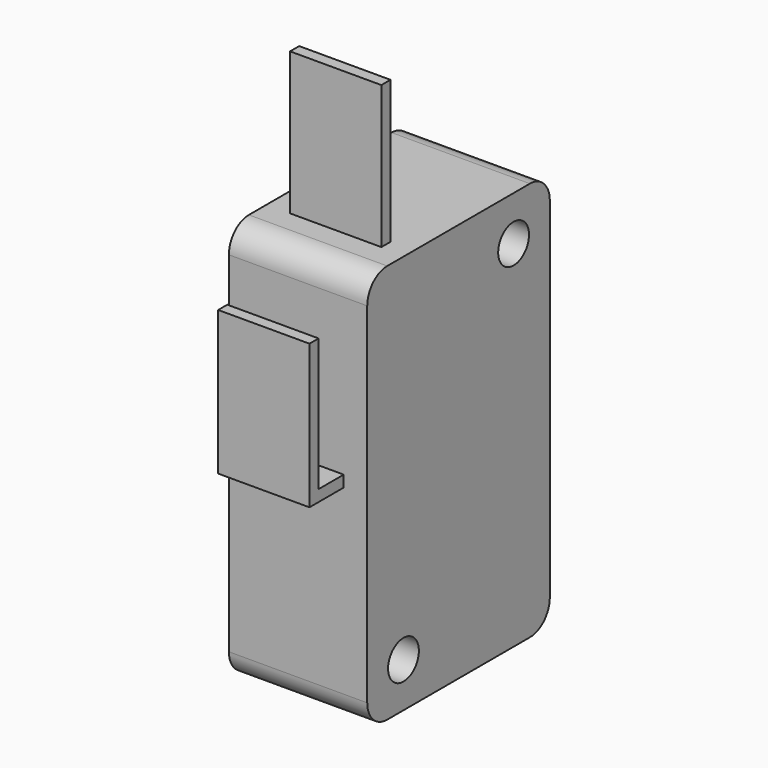
from build123d import *

# Parameters (mm, degrees)
SKETCH051_R             = 1.35
PAD051_DEPTH            = 9.7
SKETCH052_W             = 2.9
SKETCH052_H             = 4.1
PAD052_DEPTH            = 3
SKETCH053_W             = 0.8
SKETCH053_H             = 6.4
PAD053_DEPTH            = 10
SKETCH054_W             = 0.8
SKETCH054_H             = 6.4
PAD054_DEPTH            = 3
SKETCH055_W             = 0.8
SKETCH055_H             = 6.4
PAD055_DEPTH            = 9.3
FILLET007_R             = 1.2
BODY011_PLACEMENT_ANGLE = 90


with BuildPart() as part:
    # Sketch051 → Pad051 (new body)
    with BuildSketch(Plane.XY):
        with BuildLine():
            ThreePointArc((-12.25, 8), (-13.487437, 7.487437), (-14, 6.25))
            Line((-14, -6.25), (-14, 6.25))
            ThreePointArc((-14, -6.25), (-13.487437, -7.487437), (-12.25, -8))
            Line((12.25, -8), (-12.25, -8))
            ThreePointArc((12.25, -8), (13.487437, -7.487437), (14, -6.25))
            Line((14, 6.25), (14, -6.25))
            ThreePointArc((14, 6.25), (13.487437, 7.487437), (12.25, 8))
            Line((-12.25, 8), (12.25, 8))
        make_face()
        with Locations((10.877931, -4.825)):
            Circle(SKETCH051_R, mode=Mode.SUBTRACT)
        with Locations((-10.877931, 4.825)):
            Circle(SKETCH051_R, mode=Mode.SUBTRACT)
    extrude(amount=PAD051_DEPTH)

    # Sketch052 (on Face8 of Pad051) → Pad052 (join)
    with BuildSketch(Plane(origin=(0, 8, 0), x_dir=(-1, 0, 0), z_dir=(0, 1, 0))):
        with Locations((-9.45, 4.85)):
            Rectangle(SKETCH052_W, SKETCH052_H)
    extrude(amount=PAD052_DEPTH)

    # Sketch053 (on Face3 of Pad052) → Pad053 (join)
    with BuildSketch(Plane(origin=(-14, 0, 0), x_dir=(0, -1, 0), z_dir=(-1, 0, 0))):
        with Locations((4.3, 4.85)):
            Rectangle(SKETCH053_W, SKETCH053_H)
    extrude(amount=PAD053_DEPTH)

    # Sketch054 (on Face16 of Pad053) → Pad054 (join)
    with BuildSketch(Plane.XZ.offset(8)):
        with Locations((-0.9, 4.85)):
            Rectangle(SKETCH054_W, SKETCH054_H)
    extrude(amount=PAD054_DEPTH)

    # Sketch055 (on Face23 of Pad054) → Pad055 (join)
    with BuildSketch(Plane(origin=(-1.3, 0, 0), x_dir=(0, -1, 0), z_dir=(-1, 0, 0))):
        with Locations((10.6, 4.85)):
            Rectangle(SKETCH055_W, SKETCH055_H)
    extrude(amount=PAD055_DEPTH)

    # Fillet007
    fillet007_edges = [part.edges().sort_by_distance(p)[0] for p in [
        (10.9, 11, 4.85),
        (8, 11, 4.85),
    ]]
    fillet(fillet007_edges, radius=FILLET007_R)


with BuildPart() as part_1:
    # Body011 placement: moved
    add(part.part.moved(Location((192.8, 0, -97))).rotate(Axis((192.8, 0, -97), (0, 1, 0)), BODY011_PLACEMENT_ANGLE))


solid = part_1.part
